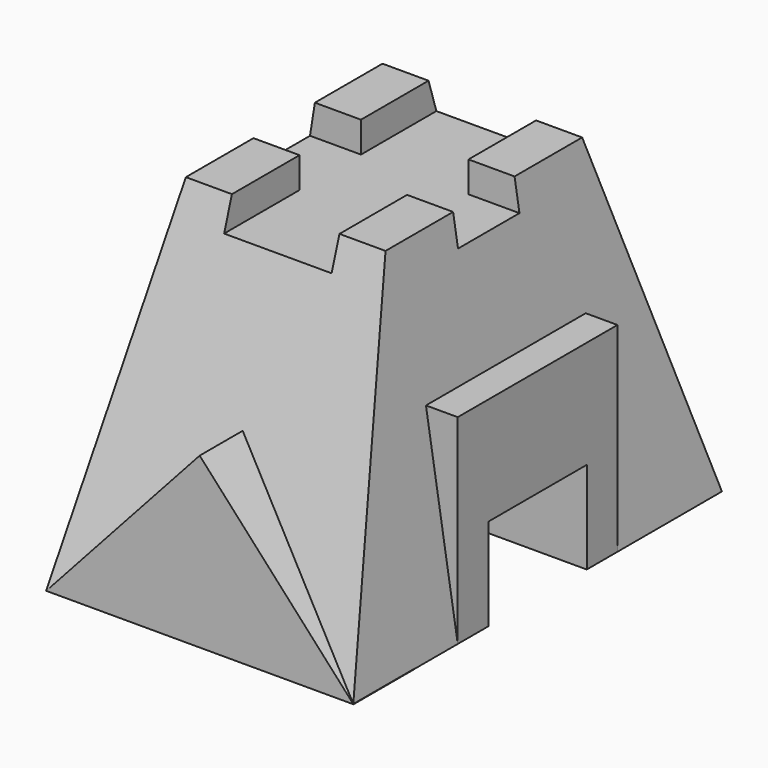
from build123d import *

# Parameters (mm, degrees)
SKETCH006_W     = 130
SKETCH006_H     = 130
PAD002_DEPTH    = 100
PAD001_DEPTH    = 50
PAD_DEPTH       = 50
SKETCH_W        = 200
SKETCH_H        = 300
SKETCH001_W     = 130
SKETCH001_H     = 160
SKETCH002_W     = 70
SKETCH002_H     = 243.677445
POCKET_DEPTH    = 20
SKETCH003_W     = 239.164902
SKETCH003_H     = 50
POCKET001_DEPTH = 20
SKETCH007_W     = 130
SKETCH007_H     = 130
PAD003_DEPTH    = 100
SKETCH008_W     = 80
SKETCH008_H     = 60
POCKET002_DEPTH = 200.001


with BuildPart() as pad002:
    # Sketch006 → Pad002 (new body, symmetric)
    with BuildSketch(Plane.YZ):
        with Locations((0, 65)):
            Rectangle(SKETCH006_W, SKETCH006_H)
    extrude(amount=PAD002_DEPTH, both=True)


with BuildPart() as pad001:
    # Sketch005 → Pad001 (new body)
    with BuildSketch(Plane.XZ.offset(-150)):
        Polygon((-100, 0), (100, 0), (0, 110), align=None)
    extrude(amount=PAD001_DEPTH)


with BuildPart() as pad:
    # Sketch004 → Pad (new body)
    with BuildSketch(Plane.XZ.offset(150)):
        Polygon((-99.885067, 0), (100.114933, 0), (0, 110), align=None)
    extrude(amount=-PAD_DEPTH)


with BuildPart() as cut:
    # Sketch → Loft section 0
    with BuildSketch(Plane.XY):
        Rectangle(SKETCH_W, SKETCH_H)
    # Sketch001 → Loft section 1
    with BuildSketch(Plane.XY.offset(220)):
        Rectangle(SKETCH001_W, SKETCH001_H)
    loft()

    # Sketch002 → Pocket (cut)
    with BuildSketch(Plane.XY.offset(220)):
        with Locations((0, 5.415055)):
            Rectangle(SKETCH002_W, SKETCH002_H)
    extrude(amount=-POCKET_DEPTH, mode=Mode.SUBTRACT)

    # Sketch003 → Pocket001 (cut)
    with BuildSketch(Plane.XY.offset(220)):
        with Locations((8.122597, 0)):
            Rectangle(SKETCH003_W, SKETCH003_H)
    extrude(amount=-POCKET001_DEPTH, mode=Mode.SUBTRACT)

    # Fusion: union Pad
    add(pad.part)

    # Fusion001: union Pad001
    add(pad001.part)

    # Cut: cut Pad002
    add(pad002.part, mode=Mode.SUBTRACT)


with BuildPart() as pocket002:
    # Sketch007 → Pad003 (new body, symmetric)
    with BuildSketch(Plane.YZ):
        with Locations((0, 65)):
            Rectangle(SKETCH007_W, SKETCH007_H)
    extrude(amount=PAD003_DEPTH, both=True)

    # Sketch008 → Pocket002 (cut, through all)
    with BuildSketch(Plane.YZ.offset(100)):
        with Locations((0, 30)):
            Rectangle(SKETCH008_W, SKETCH008_H)
    extrude(amount=-POCKET002_DEPTH, mode=Mode.SUBTRACT)


solid = Compound([cut.part, pocket002.part])
